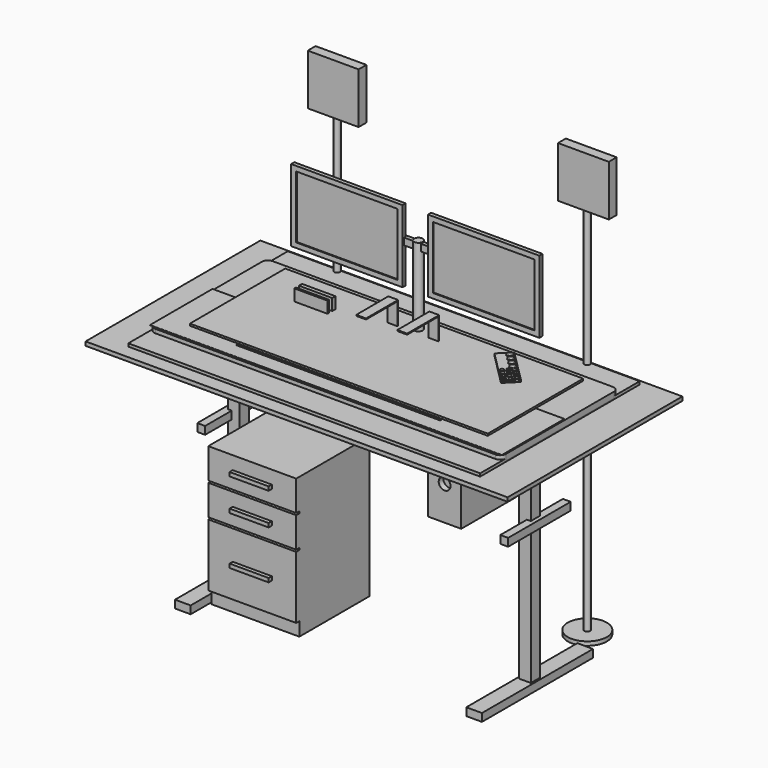
from build123d import *

# Parameters (mm, degrees)
SKETCH_W                = 1800
SKETCH_H                = 1020
PAD_DEPTH               = 15
BODY_PLACEMENT_ANGLE    = 90
SKETCH001_W             = 1041.4
SKETCH001_H             = 584.2
PAD001_DEPTH            = 19
BODY001_PLACEMENT_ANGLE = 90
SKETCH002_W             = 2159
SKETCH002_H             = 1117.6
PAD002_DEPTH            = 20
BODY002_PLACEMENT_ANGLE = 90
SKETCH003_W             = 800
SKETCH003_H             = 300
PAD003_DEPTH            = 4
SKETCH010_W             = 450
SKETCH010_H             = 450
PAD008_DEPTH            = 720
SKETCH011_W             = 450
SKETCH011_H             = 155
SKETCH011_H_2           = 320
PAD009_DEPTH            = 20
SKETCH012_W             = 200
SKETCH012_H             = 20
PAD010_DEPTH            = 20
SKETCH013_W             = 240
SKETCH013_H             = 260
PAD011_DEPTH            = 30
SKETCH014_W             = 240
SKETCH014_H             = 80
PAD012_DEPTH            = 20
SKETCH015_R             = 15
SKETCH015_R_2           = 10
PAD013_DEPTH            = 4
SKETCH016_R             = 7
PAD014_DEPTH            = 10
BODY009_PLACEMENT_ANGLE = 45
SKETCH017_W             = 170
SKETCH017_H             = 350
PAD015_DEPTH            = 175
SKETCH018_R             = 30.211751
SKETCH018_W             = 119.612664
SKETCH018_H             = 17.60862
SKETCH018_W_2           = 120.916986
SKETCH018_H_2           = 14.347733
POCKET002_DEPTH         = 30
SKETCH023_W             = 180
SKETCH023_H             = 180
PAD020_DEPTH            = 50
SKETCH019_W             = 1524
SKETCH019_H             = 609.6
PAD016_DEPTH            = 10
PAD017_DEPTH            = 5
SKETCH021_W             = 50
SKETCH021_H             = 5
PAD018_DEPTH            = 152.4
SKETCH022_W             = 50
SKETCH022_H             = 5
PAD019_DEPTH            = 200
BODY012_PLACEMENT_ANGLE = 180
SKETCH038_W             = 300
SKETCH038_H             = 400
PAD035_DEPTH            = 20
PAD036_DEPTH            = 90
PAD037_DEPTH            = 30
SKETCH041_R             = 15
SKETCH041_R_2           = 30
SKETCH041_W             = 100
SKETCH041_H             = 20
POCKET003_DEPTH         = 30.001
SKETCH042_W             = 170
SKETCH042_H             = 50
PAD038_DEPTH            = 100
SKETCH043_W             = 170
SKETCH043_H             = 20
POCKET004_DEPTH         = 80
SKETCH044_W             = 90
SKETCH044_H             = 50
PAD039_DEPTH            = 775
SKETCH030_W             = 80
SKETCH030_H             = 710
PAD027_DEPTH            = 40
SKETCH031_W             = 60
SKETCH031_H             = 60
PAD028_DEPTH            = 1146.9
SKETCH032_W             = 25
SKETCH032_H             = 570
PAD029_DEPTH            = 25
SKETCH033_W             = 400
SKETCH033_H             = 40
PAD030_DEPTH            = 20
SKETCH034_W             = 80
SKETCH034_H             = 710
PAD033_DEPTH            = 40
SKETCH036_W             = 60
SKETCH036_H             = 60
PAD032_DEPTH            = 1146.9
SKETCH035_W             = 25
SKETCH035_H             = 570
PAD034_DEPTH            = 25
SKETCH037_W             = 400
SKETCH037_H             = 40
PAD031_DEPTH            = 20
BODY016_PLACEMENT_ANGLE = 180
SKETCH008_W             = 570
SKETCH008_H             = 370
PAD007_DEPTH            = 20
SKETCH009_W             = 520
SKETCH009_H             = 320
POCKET001_DEPTH         = 5
SKETCH004_W             = 570
SKETCH004_H             = 370
PAD004_DEPTH            = 20
SKETCH005_W             = 520
SKETCH005_H             = 320
POCKET_DEPTH            = 5
SKETCH007_W             = 800
SKETCH007_H             = 20
PAD006_DEPTH            = 35
SKETCH006_R             = 22.5
PAD005_DEPTH            = 440
SKETCH028_R             = 100
PAD024_DEPTH            = 20
SKETCH027_R             = 15
PAD025_DEPTH            = 1900
SKETCH029_W             = 260
SKETCH029_H             = 50
PAD026_DEPTH            = 260
SKETCH024_R             = 100
PAD021_DEPTH            = 20
SKETCH025_R             = 15
PAD022_DEPTH            = 1900
SKETCH026_W             = 260
SKETCH026_H             = 50
PAD023_DEPTH            = 260
SKETCH045_W             = 1800
SKETCH045_H             = 400
PAD040_DEPTH            = 1


with BuildPart() as obj1:
    # Sketch → Pad (new body)
    with BuildSketch(Plane.XZ):
        Rectangle(SKETCH_W, SKETCH_H)
    extrude(amount=PAD_DEPTH)


with BuildPart() as obj1_1:
    # Body placement: moved
    add(obj1.part.rotate(Axis((0, 0, 0), (1, 0, 0)), BODY_PLACEMENT_ANGLE))


with BuildPart() as obj2:
    # Sketch001 → Pad001 (new body)
    with BuildSketch(Plane.XZ):
        Rectangle(SKETCH001_W, SKETCH001_H)
    extrude(amount=PAD001_DEPTH)


with BuildPart() as obj2_1:
    # Body001 placement: moved
    add(obj2.part.moved(Location((0, 0, 30))).rotate(Axis((0, 0, 30), (1, 0, 0)), BODY001_PLACEMENT_ANGLE))


with BuildPart() as maxima:
    # Sketch002 → Pad002 (new body)
    with BuildSketch(Plane.XZ):
        Rectangle(SKETCH002_W, SKETCH002_H)
    extrude(amount=PAD002_DEPTH)


with BuildPart() as maxima_1:
    # Body002 placement: moved
    add(maxima.part.moved(Location((0, 0, -30))).rotate(Axis((0, 0, -30), (1, 0, 0)), BODY002_PLACEMENT_ANGLE))


with BuildPart() as obj3:
    # Sketch003 → Pad003 (new body)
    with BuildSketch(Plane.XY):
        Rectangle(SKETCH003_W, SKETCH003_H)
    extrude(amount=PAD003_DEPTH)


with BuildPart() as obj3_1:
    # Body003 placement: moved
    add(obj3.part.moved(Location((0, -220, 20))))


with BuildPart() as obj4:
    # Sketch010 → Pad008 (new body)
    with BuildSketch(Plane.XY):
        Rectangle(SKETCH010_W, SKETCH010_H)
    extrude(amount=-PAD008_DEPTH)

    # Sketch011 (on Face3 of Pad008) → Pad009 (join)
    with BuildSketch(Plane.XZ.offset(225)):
        with Locations((0, -77.5)):
            Rectangle(SKETCH011_W, SKETCH011_H)
        with Locations((0, -242.5)):
            Rectangle(SKETCH011_W, SKETCH011_H)
        with Locations((0, -490)):
            Rectangle(SKETCH011_W, SKETCH011_H_2)
    extrude(amount=PAD009_DEPTH)

    # Sketch012 (on Face17 of Pad009) → Pad010 (join)
    with BuildSketch(Plane.XZ.offset(245)):
        with Locations((0, -77.5)):
            Rectangle(SKETCH012_W, SKETCH012_H)
        with Locations((0, -242.5)):
            Rectangle(SKETCH012_W, SKETCH012_H)
        with Locations((0, -490)):
            Rectangle(SKETCH012_W, SKETCH012_H)
    extrude(amount=PAD010_DEPTH)


with BuildPart() as obj4_1:
    # Body008 placement: moved
    add(obj4.part.moved(Location((-470, -10, -500))))


with BuildPart() as interface:
    # Sketch013 → Pad011 (new body)
    with BuildSketch(Plane.XY):
        Rectangle(SKETCH013_W, SKETCH013_H)
    extrude(amount=PAD011_DEPTH)

    # Sketch014 (on Face6 of Pad011) → Pad012 (join)
    with BuildSketch(Plane.XY.offset(30)):
        with Locations((0, 90)):
            Rectangle(SKETCH014_W, SKETCH014_H)
    extrude(amount=PAD012_DEPTH)

    # Sketch015 (on Face10 of Pad012) → Pad013 (join)
    with BuildSketch(Plane.XY.offset(50)):
        with Locations((-100, 110)):
            Circle(SKETCH015_R)
        with Locations((-65, 110)):
            Circle(SKETCH015_R)
        with Locations((-30, 110)):
            Circle(SKETCH015_R)
        with Locations((5, 110)):
            Circle(SKETCH015_R)
        with Locations((32.5, 113.838439)):
            Circle(SKETCH015_R_2)
        with Locations((32.5, 88.838439)):
            Circle(SKETCH015_R_2)
        with Locations((32.5, 63.838439)):
            Circle(SKETCH015_R_2)
        with Locations((57.5, 113.838439)):
            Circle(SKETCH015_R_2)
        with Locations((57.5, 88.838439)):
            Circle(SKETCH015_R_2)
        with Locations((57.5, 63.838439)):
            Circle(SKETCH015_R_2)
        with Locations((82.5, 113.838439)):
            Circle(SKETCH015_R_2)
        with Locations((82.5, 88.838439)):
            Circle(SKETCH015_R_2)
        with Locations((82.5, 63.838439)):
            Circle(SKETCH015_R_2)
        with Locations((107.5, 113.838439)):
            Circle(SKETCH015_R_2)
        with Locations((107.5, 88.838439)):
            Circle(SKETCH015_R_2)
        with Locations((107.5, 63.838439)):
            Circle(SKETCH015_R_2)
    extrude(amount=PAD013_DEPTH)

    # Sketch016 (on Face7 of Pad013) → Pad014 (join)
    with BuildSketch(Plane.XY.offset(30)):
        with Locations((-100, 10)):
            Circle(SKETCH016_R)
        with Locations((-100, -10)):
            Circle(SKETCH016_R)
        with Locations((-100, -30)):
            Circle(SKETCH016_R)
        with Locations((-100, -50)):
            Circle(SKETCH016_R)
        with Locations((-100, -70)):
            Circle(SKETCH016_R)
        with Locations((-100, -90)):
            Circle(SKETCH016_R)
        with Locations((-100, -110)):
            Circle(SKETCH016_R)
        with Locations((-70, 10)):
            Circle(SKETCH016_R)
        with Locations((-70, -10)):
            Circle(SKETCH016_R)
        with Locations((-70, -30)):
            Circle(SKETCH016_R)
        with Locations((-70, -50)):
            Circle(SKETCH016_R)
        with Locations((-70, -70)):
            Circle(SKETCH016_R)
        with Locations((-70, -90)):
            Circle(SKETCH016_R)
        with Locations((-70, -110)):
            Circle(SKETCH016_R)
        with Locations((-40, 10)):
            Circle(SKETCH016_R)
        with Locations((-40, -10)):
            Circle(SKETCH016_R)
        with Locations((-40, -30)):
            Circle(SKETCH016_R)
        with Locations((-40, -50)):
            Circle(SKETCH016_R)
        with Locations((-40, -70)):
            Circle(SKETCH016_R)
        with Locations((-40, -90)):
            Circle(SKETCH016_R)
        with Locations((-40, -110)):
            Circle(SKETCH016_R)
        with Locations((-10, 10)):
            Circle(SKETCH016_R)
        with Locations((-10, -10)):
            Circle(SKETCH016_R)
        with Locations((-10, -30)):
            Circle(SKETCH016_R)
        with Locations((-10, -50)):
            Circle(SKETCH016_R)
        with Locations((-10, -70)):
            Circle(SKETCH016_R)
        with Locations((-10, -90)):
            Circle(SKETCH016_R)
        with Locations((-10, -110)):
            Circle(SKETCH016_R)
        with Locations((20, 10)):
            Circle(SKETCH016_R)
        with Locations((20, -10)):
            Circle(SKETCH016_R)
        with Locations((20, -30)):
            Circle(SKETCH016_R)
        with Locations((20, -50)):
            Circle(SKETCH016_R)
        with Locations((20, -70)):
            Circle(SKETCH016_R)
        with Locations((20, -90)):
            Circle(SKETCH016_R)
        with Locations((20, -110)):
            Circle(SKETCH016_R)
        with Locations((50, 10)):
            Circle(SKETCH016_R)
        with Locations((50, -10)):
            Circle(SKETCH016_R)
        with Locations((50, -30)):
            Circle(SKETCH016_R)
        with Locations((50, -50)):
            Circle(SKETCH016_R)
        with Locations((50, -70)):
            Circle(SKETCH016_R)
        with Locations((50, -90)):
            Circle(SKETCH016_R)
        with Locations((50, -110)):
            Circle(SKETCH016_R)
    extrude(amount=PAD014_DEPTH)


with BuildPart() as interface_1:
    # Body009 placement: moved
    add(interface.part.moved(Location((430, 110, 20))).rotate(Axis((430, 110, 20), (0, 0, -1)), BODY009_PLACEMENT_ANGLE))


with BuildPart() as pc:
    # Sketch017 → Pad015 (new body, symmetric)
    with BuildSketch(Plane.XY):
        Rectangle(SKETCH017_W, SKETCH017_H)
    extrude(amount=PAD015_DEPTH, both=True)

    # Sketch018 (on Face3 of Pad015) → Pocket002 (cut)
    with BuildSketch(Plane.XZ.offset(175)):
        Circle(SKETCH018_R)
        with Locations((0, 133.663555)):
            Rectangle(SKETCH018_W, SKETCH018_H)
        with Locations((0, 103.9898)):
            Rectangle(SKETCH018_W_2, SKETCH018_H_2)
    extrude(amount=-POCKET002_DEPTH, mode=Mode.SUBTRACT)

    # Sketch023 (on Face5 of Pocket002) → Pad020 (join)
    with BuildSketch(Plane.XY.offset(175)):
        Rectangle(SKETCH023_W, SKETCH023_H)
    extrude(amount=PAD020_DEPTH)


with BuildPart() as pc_1:
    # Body010 placement: moved
    add(pc.part.moved(Location((570, -150, -230))))


with BuildPart() as obj5:
    # Sketch019 → Pad016 (new body)
    with BuildSketch(Plane.XY):
        with Locations((20.704278, -9.729495)):
            Rectangle(SKETCH019_W, SKETCH019_H)
    extrude(amount=PAD016_DEPTH)


with BuildPart() as obj5_1:
    # Body011 placement: moved
    add(obj5.part.moved(Location((0, 0, 51))))


with BuildPart() as baselaptop:
    # Sketch020 → Pad017 (new body)
    with BuildSketch(Plane.XY):
        Polygon((-130, 124.762608), (130, 124.762608), (130, -100.237392), (80, -100.237392), (80, 74.762608), (-80, 74.762608), (-80, -100.237392), (-130, -100.237392), align=None)
    extrude(amount=PAD017_DEPTH)

    # Sketch021 (on Face10 of Pad017) → Pad018 (join)
    with BuildSketch(Plane.XY.offset(5)):
        with Locations((105, -97.737392)):
            Rectangle(SKETCH021_W, SKETCH021_H)
        with Locations((-105, -97.737392)):
            Rectangle(SKETCH021_W, SKETCH021_H)
    extrude(amount=PAD018_DEPTH)

    # Sketch022 (on Face16 of Pad018) → Pad019 (join)
    with BuildSketch(Plane(origin=(0, -95.237392, 0), x_dir=(-1, 0, 0), z_dir=(0, 1, 0))):
        with Locations((-105, 154.9)):
            Rectangle(SKETCH022_W, SKETCH022_H)
        with Locations((105, 154.9)):
            Rectangle(SKETCH022_W, SKETCH022_H)
    extrude(amount=PAD019_DEPTH)


with BuildPart() as baselaptop_1:
    # Body012 placement: moved
    add(baselaptop.part.moved(Location((0, 90, 20))).rotate(Axis((0, 90, 20), (0, 0, 1)), BODY012_PLACEMENT_ANGLE))


with BuildPart() as obj6:
    # Sketch038 → Pad035 (new body)
    with BuildSketch(Plane.XY):
        Rectangle(SKETCH038_W, SKETCH038_H)
    extrude(amount=PAD035_DEPTH)

    # Sketch039 (on Face6 of Pad035) → Pad036 (join)
    with BuildSketch(Plane.XY.offset(20)):
        Polygon((-150, 200), (-130, 200), (-130, -180), (130, -180), (130, 200), (150, 200), (150, -200), (-150, -200), align=None)
    extrude(amount=PAD036_DEPTH)


with BuildPart() as obj6_1:
    # Body017 placement: moved
    add(obj6.part.moved(Location((-420, -170, -120))))


with BuildPart() as mesa_nueva:
    # Sketch040 → Pad037 (new body)
    with BuildSketch(Plane.XY):
        with BuildLine():
            Line((-870, 375), (870, 375))
            ThreePointArc((900, 345), (891.213203, 366.213203), (870, 375))
            Line((900, 345), (900, -345))
            ThreePointArc((870, -375), (891.213203, -366.213203), (900, -345))
            Line((870, -375), (-870, -375))
            ThreePointArc((-900, -345), (-891.213203, -366.213203), (-870, -375))
            Line((-900, -345), (-900, 345))
            ThreePointArc((-870, 375), (-891.213203, 366.213203), (-900, 345))
        make_face()
    extrude(amount=PAD037_DEPTH)

    # Sketch041 (on Face10 of Pad037) → Pocket003 (cut, through all)
    with BuildSketch(Plane.XY.offset(30)):
        with Locations((0, -75)):
            Circle(SKETCH041_R)
        with Locations((-300, -75)):
            Circle(SKETCH041_R)
        with Locations((300, -75)):
            Circle(SKETCH041_R)
        with Locations((0, 325)):
            Circle(SKETCH041_R_2)
        with Locations((-600, 185)):
            Circle(SKETCH041_R_2)
        with Locations((600, 185)):
            Circle(SKETCH041_R_2)
        with Locations((-200, 70.043633)):
            Circle(SKETCH041_R_2)
        with Locations((0, 185)):
            Rectangle(SKETCH041_W, SKETCH041_H)
    extrude(amount=-POCKET003_DEPTH, mode=Mode.SUBTRACT)


with BuildPart() as mesa_nueva_1:
    # Body018 placement: moved
    add(mesa_nueva.part.moved(Location((0, 0, -10))))


with BuildPart() as nintendo:
    # Sketch042 → Pad038 (new body)
    with BuildSketch(Plane.XY):
        Rectangle(SKETCH042_W, SKETCH042_H)
    extrude(amount=PAD038_DEPTH)

    # Sketch043 (on Face6 of Pad038) → Pocket004 (cut)
    with BuildSketch(Plane.XY.offset(100)):
        with Locations((0, -5)):
            Rectangle(SKETCH043_W, SKETCH043_H)
    extrude(amount=-POCKET004_DEPTH, mode=Mode.SUBTRACT)


with BuildPart() as nintendo_1:
    # Body019 placement: moved
    add(nintendo.part.moved(Location((-450, 120, 20))))


with BuildPart() as tubo:
    # Sketch044 → Pad039 (new body, symmetric)
    with BuildSketch(Plane.YZ):
        with Locations((2.038273, 2.767936)):
            Rectangle(SKETCH044_W, SKETCH044_H)
    extrude(amount=PAD039_DEPTH, both=True)


with BuildPart() as tubo_1:
    # Body020 placement: moved
    add(tubo.part.moved(Location((0, 0, -40))))


with BuildPart() as fusion:
    # Sketch030 → Pad027 (new body)
    with BuildSketch(Plane.XY):
        Rectangle(SKETCH030_W, SKETCH030_H)
    extrude(amount=PAD027_DEPTH)

    # Sketch031 (on Face6 of Pad027) → Pad028 (join)
    with BuildSketch(Plane.XY.offset(40)):
        Rectangle(SKETCH031_W, SKETCH031_H)
    extrude(amount=PAD028_DEPTH)

    # Sketch032 (on Face11 of Pad028) → Pad029 (join)
    with BuildSketch(Plane.XY.offset(1186.9)):
        Rectangle(SKETCH032_W, SKETCH032_H)
    extrude(amount=PAD029_DEPTH)

    # Sketch033 (on Face10 of Pad029) → Pad030 (join, symmetric)
    with BuildSketch(Plane(origin=(-30, 0, 0), x_dir=(0, -1, 0), z_dir=(-1, 0, 0))):
        with Locations((0, 748.98)):
            Rectangle(SKETCH033_W, SKETCH033_H)
    extrude(amount=PAD030_DEPTH, both=True)


with BuildPart() as fusion_1:
    # Body015 placement: moved
    add(fusion.part.moved(Location((-745, 0, -1220))))

    # Fusion: union Tubo
    add(tubo_1.part)


with BuildPart() as vivo:
    # Sketch034 → Pad033 (new body)
    with BuildSketch(Plane.XY):
        Rectangle(SKETCH034_W, SKETCH034_H)
    extrude(amount=PAD033_DEPTH)

    # Sketch036 (on Face6 of Pad033) → Pad032 (join)
    with BuildSketch(Plane.XY.offset(40)):
        Rectangle(SKETCH036_W, SKETCH036_H)
    extrude(amount=PAD032_DEPTH)

    # Sketch035 (on Face11 of Pad032) → Pad034 (join)
    with BuildSketch(Plane.XY.offset(1186.9)):
        Rectangle(SKETCH035_W, SKETCH035_H)
    extrude(amount=PAD034_DEPTH)

    # Sketch037 (on Face10 of Pad034) → Pad031 (join, symmetric)
    with BuildSketch(Plane(origin=(-30, 0, 0), x_dir=(0, -1, 0), z_dir=(-1, 0, 0))):
        with Locations((0, 748.98)):
            Rectangle(SKETCH037_W, SKETCH037_H)
    extrude(amount=PAD031_DEPTH, both=True)


with BuildPart() as vivo_1:
    # Body016 placement: moved
    add(vivo.part.moved(Location((745, 0, -1220))).rotate(Axis((745, 0, -1220), (0, 0, 1)), BODY016_PLACEMENT_ANGLE))

    # Fusion001: union Fusion
    add(fusion_1.part)


with BuildPart() as monitor2:
    # Sketch008 → Pad007 (new body)
    with BuildSketch(Plane.XZ):
        Rectangle(SKETCH008_W, SKETCH008_H)
    extrude(amount=PAD007_DEPTH)

    # Sketch009 (on Face6 of Pad007) → Pocket001 (cut)
    with BuildSketch(Plane.XZ.offset(20)):
        Rectangle(SKETCH009_W, SKETCH009_H)
    extrude(amount=-POCKET001_DEPTH, mode=Mode.SUBTRACT)


with BuildPart() as monitor2_1:
    # Body007 placement: moved
    add(monitor2.part.moved(Location((350, 220, 420))))


with BuildPart() as fusion003:
    # Sketch004 → Pad004 (new body)
    with BuildSketch(Plane.XZ):
        Rectangle(SKETCH004_W, SKETCH004_H)
    extrude(amount=PAD004_DEPTH)

    # Sketch005 (on Face6 of Pad004) → Pocket (cut)
    with BuildSketch(Plane.XZ.offset(20)):
        Rectangle(SKETCH005_W, SKETCH005_H)
    extrude(amount=-POCKET_DEPTH, mode=Mode.SUBTRACT)


with BuildPart() as fusion003_1:
    # Body004 placement: moved
    add(fusion003.part.moved(Location((-350, 220, 420))))

    # Fusion003: union Monitor2
    add(monitor2_1.part)


with BuildPart() as obj7:
    # Sketch007 → Pad006 (new body)
    with BuildSketch(Plane.XY):
        Rectangle(SKETCH007_W, SKETCH007_H)
    extrude(amount=PAD006_DEPTH)


with BuildPart() as obj7_1:
    # Body006 placement: moved
    add(obj7.part.moved(Location((0, 220, 420))))


with BuildPart() as obj8:
    # Sketch006 → Pad005 (new body)
    with BuildSketch(Plane.XY):
        Circle(SKETCH006_R)
    extrude(amount=PAD005_DEPTH)


with BuildPart() as obj8_1:
    # Body005 placement: moved
    add(obj8.part.moved(Location((0, 220, 20))))

    # Fusion002: union obj7
    add(obj7_1.part)

    # Fusion004: union Fusion003
    add(fusion003_1.part)


with BuildPart() as obj9:
    # Sketch028 → Pad024 (new body)
    with BuildSketch(Plane.XY):
        Circle(SKETCH028_R)
    extrude(amount=PAD024_DEPTH)

    # Sketch027 (on Face3 of Pad024) → Pad025 (join)
    with BuildSketch(Plane.XY.offset(20)):
        Circle(SKETCH027_R)
    extrude(amount=PAD025_DEPTH)

    # Sketch029 (on Face5 of Pad025) → Pad026 (join)
    with BuildSketch(Plane.XY.offset(1920)):
        Rectangle(SKETCH029_W, SKETCH029_H)
    extrude(amount=PAD026_DEPTH)


with BuildPart() as obj9_1:
    # Body014 placement: moved
    add(obj9.part.moved(Location((640, 500, -1220))))


with BuildPart() as obj10:
    # Sketch024 → Pad021 (new body)
    with BuildSketch(Plane.XY):
        Circle(SKETCH024_R)
    extrude(amount=PAD021_DEPTH)

    # Sketch025 (on Face3 of Pad021) → Pad022 (join)
    with BuildSketch(Plane.XY.offset(20)):
        Circle(SKETCH025_R)
    extrude(amount=PAD022_DEPTH)

    # Sketch026 (on Face5 of Pad022) → Pad023 (join)
    with BuildSketch(Plane.XY.offset(1920)):
        Rectangle(SKETCH026_W, SKETCH026_H)
    extrude(amount=PAD023_DEPTH)


with BuildPart() as obj10_1:
    # Body013 placement: moved
    add(obj10.part.moved(Location((-640, 500, -1220))))

    # Fusion005: union obj9
    add(obj9_1.part)


with BuildPart() as obj11:
    # Sketch045 → Pad040 (new body)
    with BuildSketch(Plane.XY):
        with Locations((0, -171.440735)):
            Rectangle(SKETCH045_W, SKETCH045_H)
    extrude(amount=PAD040_DEPTH)


with BuildPart() as obj11_1:
    # Body021 placement: moved
    add(obj11.part.moved(Location((0, 0, 25))))


solid = Compound([obj1_1.part, obj2_1.part, maxima_1.part, obj3_1.part, obj4_1.part, interface_1.part, pc_1.part, obj5_1.part, baselaptop_1.part, obj6_1.part, mesa_nueva_1.part, nintendo_1.part, vivo_1.part, obj8_1.part, obj10_1.part, obj11_1.part])
